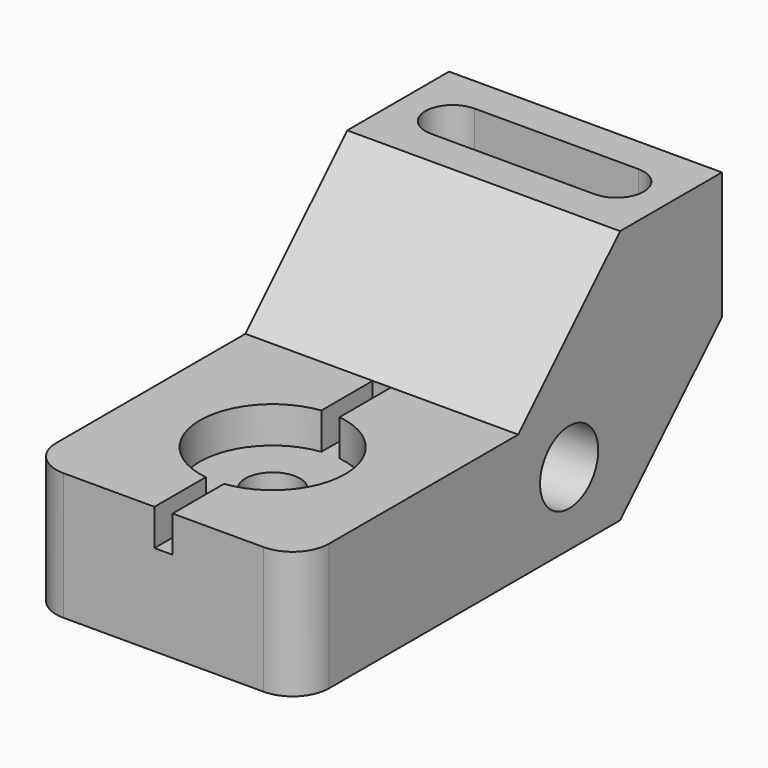
from build123d import *

# Parameters (mm, degrees)
F1_DEPTH       = 38.1
F3_D           = 15.24
F3_CBORE_D     = 40.64
F3_CBORE_DEPTH = 10.16
F5_DEPTH       = 76.2
F6_R           = 10.16
F7_DEPTH       = 76.2
F9_DEPTH       = 27.94
F10_R          = 10.16


with BuildPart() as f1:
    # F0 (on Right) → F1 (new body, symmetric)
    with BuildSketch(Plane.YZ):
        Polygon((0, 35.56), (0, 0), (111.76, 0), (147.32, 35.56), (147.32, 71.12), (111.76, 71.12), (76.2, 35.56), align=None)
    extrude(amount=F1_DEPTH, both=True)

    # F3 (through all)
    with Locations(Plane.XY.offset(35.56)):
        with Locations((0, 38.1)):
            CounterBoreHole(F3_D / 2, F3_CBORE_D / 2, F3_CBORE_DEPTH)

    # F4 (on face) → F5 (cut)
    with BuildSketch(Plane.XZ):
        Polygon((2.54, 35.56), (0, 35.56), (-2.54, 35.56), (-2.54, 25.4), (2.54, 25.4), align=None)
    extrude(amount=-F5_DEPTH, mode=Mode.SUBTRACT)

    # F6 (on face) → F7 (cut)
    with BuildSketch(Plane.YZ.offset(38.1)):
        with Locations((93.98, 20.32)):
            Circle(F6_R)
    extrude(amount=-F7_DEPTH, mode=Mode.SUBTRACT)

    # F8 (on face) → F9 (cut)
    with BuildSketch(Plane.XY.offset(71.12)):
        with BuildLine():
            Line((22.86, 137.16), (-22.86, 137.16))
            ThreePointArc((-22.86, 137.16), (-30.48, 129.54), (-22.86, 121.92))
            Line((-22.86, 121.92), (22.86, 121.92))
            ThreePointArc((22.86, 121.92), (30.48, 129.54), (22.86, 137.16))
        make_face()
    extrude(amount=-F9_DEPTH, mode=Mode.SUBTRACT)

    # F10
    f10_edges = [f1.edges().sort_by_distance(p)[0] for p in [
        (38.1, 0, 17.78),
        (-38.1, 0, 17.78),
    ]]
    fillet(f10_edges, radius=F10_R)


solid = f1.part
